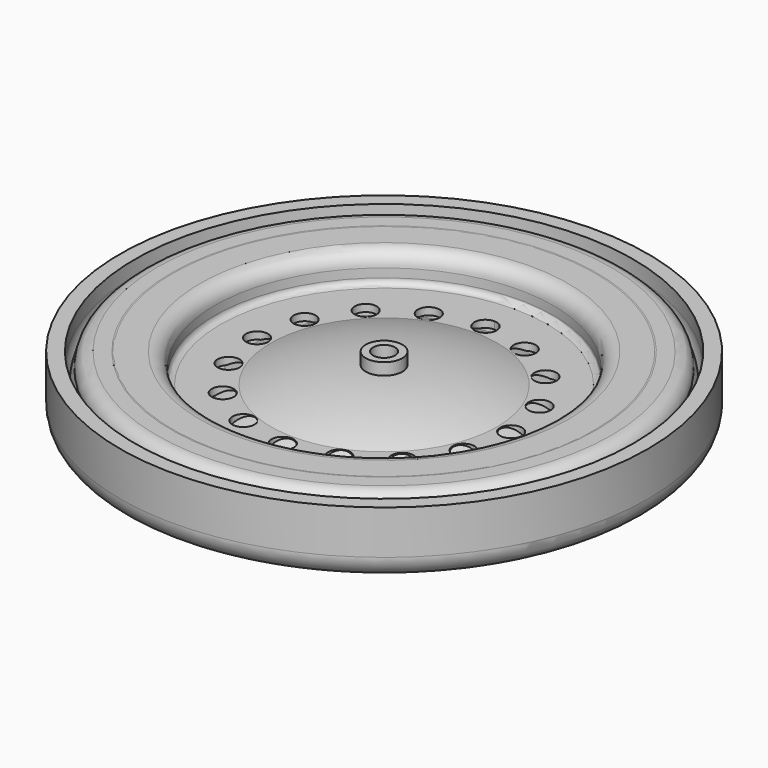
from build123d import *

# Parameters (mm, degrees)
SKETCH_R        = 36
PAD_DEPTH       = 9
FILLET_R        = 3
SKETCH001_R     = 34
SKETCH001_R_2   = 2.5
POCKET_DEPTH    = 5
FILLET001_R     = 3
SKETCH002_R     = 1.5
POCKET001_DEPTH = 5
FILLET002_R     = 3
SKETCH004_R     = 26.373716
POCKET002_DEPTH = 2
FILLET003_R     = 1
FILLET004_R     = 0.5
SKETCH008_R     = 1.5
POCKET003_DEPTH = 9.795555
FILLET005_R     = 2


with BuildPart() as body:
    # Sketch → Pad (new body)
    with BuildSketch(Plane.XY):
        Circle(SKETCH_R)
    extrude(amount=PAD_DEPTH)

    # Fillet
    fillet_edges = [body.edges().sort_by_distance(p)[0] for p in [
        (-36, 0, 0),
    ]]
    fillet(fillet_edges, radius=FILLET_R)

    # Sketch001 (on Face3 of Fillet) → Pocket (cut)
    with BuildSketch(Plane.XY.offset(9)):
        Circle(SKETCH001_R)
        Circle(SKETCH001_R_2, mode=Mode.SUBTRACT)
    extrude(amount=-POCKET_DEPTH, mode=Mode.SUBTRACT)

    # Fillet001
    fillet001_edges = [body.edges().sort_by_distance(p)[0] for p in [
        (-34, 0, 4),
    ]]
    fillet(fillet001_edges, radius=FILLET001_R)

    # Sketch002 (on Face8 of Fillet001) → Pocket001 (cut)
    with BuildSketch(Plane.XY.offset(9)):
        Circle(SKETCH002_R)
    extrude(amount=-POCKET001_DEPTH, mode=Mode.SUBTRACT)

    # Fillet002
    fillet002_edges = [body.edges().sort_by_distance(p)[0] for p in [
        (-2.5, 0, 4),
    ]]
    fillet(fillet002_edges, radius=FILLET002_R)

    # Sketch004 (on Face12 of Fillet002) → Pocket002 (cut)
    with BuildSketch(Plane(origin=(0, 0, 0), x_dir=(1, 0, 0), z_dir=(0, 0, -1))):
        Circle(SKETCH004_R)
    extrude(amount=-POCKET002_DEPTH, mode=Mode.SUBTRACT)

    # Fillet003
    fillet003_edges = [body.edges().sort_by_distance(p)[0] for p in [
        (-26.373716, 0, 0),
    ]]
    fillet(fillet003_edges, radius=FILLET003_R)

    # Fillet004
    fillet004_edges = [body.edges().sort_by_distance(p)[0] for p in [
        (-26.373716, 0, 2),
    ]]
    fillet(fillet004_edges, radius=FILLET004_R)


with BuildPart() as body001:
    # Sketch007 → Revolution (revolve)
    with BuildSketch(Plane.XZ):
        with BuildLine():
            Line((33.5, 0), (33.5, 4.988838))
            ThreePointArc((33.5, 4.988838), (32.328427, 7.817265), (29.5, 8.988838))
            Line((29.5, 8.988838), (25.11487, 8.988838))
            ThreePointArc((25.11487, 8.988838), (23.705106, 8.404894), (23.121162, 6.99513))
            Line((23.121162, 6.99513), (23.121162, 5.796436))
            ThreePointArc((22.313564, 4.988838), (22.884622, 5.225378), (23.121162, 5.796436))
            Line((22.313564, 4.988838), (8.425175, 4.988838))
            ThreePointArc((6.534911, 5.36976), (7.461043, 5.085016), (8.425175, 4.988838))
            ThreePointArc((6.534911, 5.36976), (3.333136, 6.353249), (0, 6.68312))
            Line((0, 4.194283), (0, 6.68312))
            Line((0, 4.194283), (1.500419, 4.194283))
            Line((1.500419, -0.805717), (1.500419, 4.194283))
            Line((1.500419, -0.805717), (3, -0.805717))
            Line((3, 3.824715), (3, -0.805717))
            ThreePointArc((3.501966, 4.232466), (3.15393, 4.148069), (3, 3.824715))
            ThreePointArc((6.539232, 3.380052), (5.034929, 3.857317), (3.501966, 4.232466))
            ThreePointArc((6.539232, 3.380052), (7.46443, 3.101822), (8.425177, 3))
            Line((8.425177, 3), (22.308592, 2.99513))
            ThreePointArc((22.308592, 2.99513), (24.29439, 3.81561), (25.11487, 5.801408))
            Line((25.11487, 6.322814), (25.11487, 5.801408))
            ThreePointArc((25.773727, 6.981671), (25.307845, 6.788696), (25.11487, 6.322814))
            Line((29.4771, 6.981671), (25.773727, 6.981671))
            ThreePointArc((31.49294, 4.998867), (30.897549, 6.409671), (29.4771, 6.981671))
            Line((31.49294, 4.998867), (31.49294, 4.978809))
            Line((31.49294, 4.978809), (31.49294, 0))
            Line((31.49294, 0), (33.5, 0))
        make_face()
    revolve(axis=Axis((0, 0, 0), (0, 0, 1)))

    # Sketch008 (on Face15 of Revolution) → Pocket003 (cut, through all)
    with BuildSketch(Plane(origin=(0, 0, -0.805717), x_dir=(1, 0, 0), z_dir=(0, 0, -1))):
        with Locations((6.543196, 15.796662)):
            Circle(SKETCH008_R)
        with Locations((12.257506, 12.185342)):
            Circle(SKETCH008_R)
        with Locations((16.021171, 6.484682)):
            Circle(SKETCH008_R)
        with Locations((-6.543196, 15.796662)):
            Circle(SKETCH008_R)
        with Locations((-12.257506, 12.185342)):
            Circle(SKETCH008_R)
        with Locations((-16.021171, 6.484682)):
            Circle(SKETCH008_R)
        with Locations((-16.021171, -6.484682)):
            Circle(SKETCH008_R)
        with Locations((-12.257506, -12.185342)):
            Circle(SKETCH008_R)
        with Locations((-6.543196, -15.796662)):
            Circle(SKETCH008_R)
        with Locations((6.543196, -15.796662)):
            Circle(SKETCH008_R)
        with Locations((12.257506, -12.185342)):
            Circle(SKETCH008_R)
        with Locations((16.021171, -6.484682)):
            Circle(SKETCH008_R)
        with BuildLine():
            ThreePointArc((0, 15.783933), (1.522531, 17.283764), (0, 18.783595))
            ThreePointArc((0, 18.783595), (-1.522531, 17.283764), (0, 15.783933))
        make_face()
        with BuildLine():
            ThreePointArc((18.830246, 0), (17.330246, 1.5), (15.830246, 0))
            ThreePointArc((15.830246, 0), (17.330246, -1.5), (18.830246, 0))
        make_face()
        with BuildLine():
            ThreePointArc((-15.830246, 0), (-17.330246, 1.5), (-18.830246, 0))
            ThreePointArc((-18.830246, 0), (-17.330246, -1.5), (-15.830246, 0))
        make_face()
        with BuildLine():
            ThreePointArc((0, -15.783933), (-1.522531, -17.283764), (0, -18.783595))
            ThreePointArc((0, -18.783595), (1.522531, -17.283764), (0, -15.783933))
        make_face()
    extrude(amount=-POCKET003_DEPTH, mode=Mode.SUBTRACT)


with BuildPart() as body002:
    # Sketch009 → Revolution001 (revolve)
    with BuildSketch(Plane.XZ):
        with BuildLine():
            Line((33, 0), (33, 9))
            Line((33, 9), (27, 9))
            Line((27, 9), (27, 4))
            Line((27, 4), (18, 4))
            ThreePointArc((18, 4), (9.185616, 6.676904), (0, 7.372337))
            Line((0, 7.372337), (0, 6.372337))
            ThreePointArc((1.499998, 6.371674), (0.750002, 6.378142), (0, 6.372337))
            Line((1.499998, 6.371674), (1.5, 0))
            Line((1.5, 0), (3, 0))
            Line((3, 3.268774), (3, 0))
            ThreePointArc((6.140092, 6.057707), (3.943502, 5.368674), (3, 3.268774))
            ThreePointArc((18, 3), (12.172639, 4.92678), (6.140092, 6.057707))
            Line((18, 3), (28, 3))
            Line((28, 8), (28, 3))
            Line((28, 8), (32, 8))
            Line((32, 8), (32, 0))
            Line((32, 0), (33, 0))
        make_face()
    revolve(axis=Axis((0, 0, 0), (0, 0, 1)))

    # Fillet005
    fillet005_edges = [body002.edges().sort_by_distance(p)[0] for p in [
        (-27, 0, 9),
        (-33, 0, 9),
    ]]
    fillet(fillet005_edges, radius=FILLET005_R)


solid = Compound([body.part, body001.part, body002.part])
